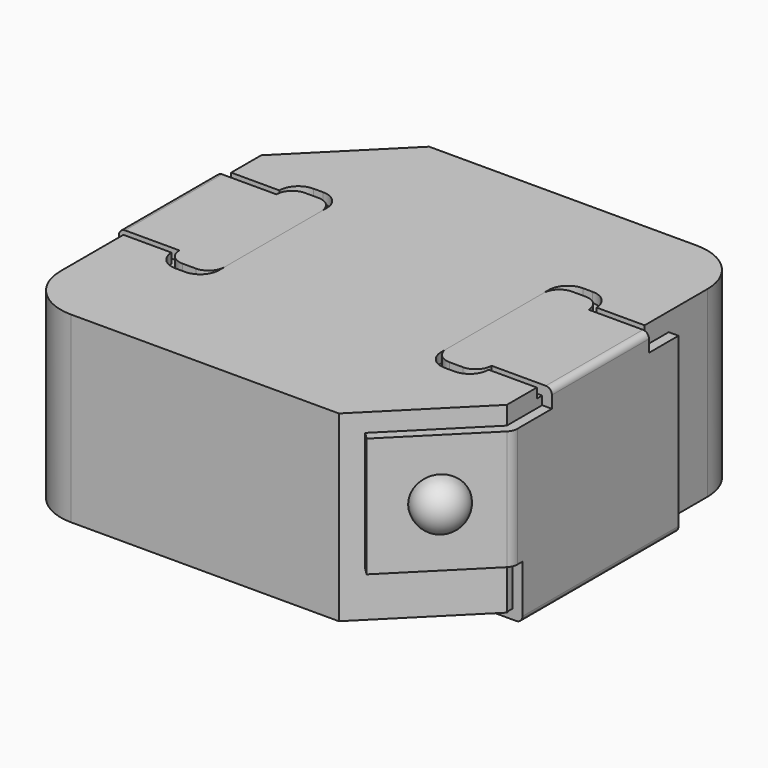
from build123d import *

# Parameters (mm, degrees)
PAD_DEPTH       = 0.16
SKETCH004_W     = 0.16
SKETCH004_H     = 3.2
PAD001_DEPTH    = 3.15
PAD002_DEPTH    = 0.16
SKETCH006_W     = 0.16
SKETCH006_H     = 0.605
POCKET_DEPTH    = 0.3
PAD003_DEPTH    = 1.96
SKETCH_R        = 0.2
POCKET001_DEPTH = 3.61875216
SPHERE_ANGLE    = 180
FILLET_R        = 0.1
FILLET001_R     = 0.2
ARRAY_COUNT     = 2
PAD004_DEPTH    = 3
POCKET002_DEPTH = 0.01
POCKET003_DEPTH = 0.16


with BuildPart() as array:
    # Sketch003 → Pad (new body)
    with BuildSketch(Plane.XY):
        with BuildLine():
            Line((3.55, 1.5999999652), (2.2900000151, 1.5999999652))
            ThreePointArc((2.2900000151, 1.5999999652), (2.0849390355, 1.5150609338), (2, 1.3099999559))
            Line((2, 1.3099999559), (2, -1.3099999721))
            ThreePointArc((2, -1.3099999721), (2.0849390413, -1.5150609396), (2.2900000151, -1.5999999652))
            Line((3.55, -1.5999999652), (2.2900000151, -1.5999999652))
            Line((3.55, 1.5999999652), (3.55, -1.5999999652))
        make_face()
    extrude(amount=PAD_DEPTH)

    # Sketch004 → Pad001 (join)
    with BuildSketch(Plane.XY):
        with Locations((3.47, 0)):
            Rectangle(SKETCH004_W, SKETCH004_H)
    extrude(amount=PAD001_DEPTH)

    # Sketch005 → Pad002 (join)
    with BuildSketch(Plane.XY.offset(3.15)):
        with BuildLine():
            Line((2.56, 0.995), (3.55, 0.995))
            Line((3.55, 0.995), (3.55, -0.995))
            Line((3.55, -0.995), (2.56, -0.995))
            ThreePointArc((2.3000000261, -1.255), (2.4838477723, -1.1788477539), (2.56, -0.995))
            Line((2.3000000261, -1.255), (2.0799999647, -1.255))
            ThreePointArc((1.82, -0.9949999993), (1.8961522242, -1.1788477504), (2.0799999647, -1.255))
            Line((1.82, 0.9950000001), (1.82, -0.9949999993))
            ThreePointArc((2.0799999469, 1.255), (1.8961522181, 1.1788477444), (1.82, 0.9950000001))
            Line((2.3000000082, 1.255), (2.0799999469, 1.255))
            ThreePointArc((2.56, 0.995), (2.483847766, 1.1788477602), (2.3000000082, 1.255))
        make_face()
    extrude(amount=-PAD002_DEPTH)

    # Sketch006 → Pocket (cut)
    with BuildSketch(Plane.XY.offset(3.15)):
        with Locations((3.47, -1.2975)):
            Rectangle(SKETCH006_W, SKETCH006_H)
        with Locations((3.47, 1.2975)):
            Rectangle(SKETCH006_W, SKETCH006_H)
    extrude(amount=-POCKET_DEPTH, mode=Mode.SUBTRACT)

    # Sketch007 (on Face17 of Pocket) → Pad003 (join)
    with BuildSketch(Plane.XY.offset(2.85)):
        Polygon((3.39, -1.6), (3.39, -1.72), (2.1, -3.01), (2.213137085, -3.123137085), (3.55, -1.78627417), (3.55, -1.6), align=None)
    extrude(amount=-PAD003_DEPTH)

    # Sketch (on Face37 of Pad003) → Pocket001 (cut, through all)
    with BuildSketch(Plane(origin=(2.668137085, -2.668137085, 0), x_dir=(0.7071067812, 0.7071067812, 0), z_dir=(0.7071067812, -0.7071067812, 0))):
        with Locations((0.3018376618, 1.87)):
            Circle(SKETCH_R)
    extrude(amount=-POCKET001_DEPTH, mode=Mode.SUBTRACT)

    # Sphere → Sphere (revolve)
    with BuildSketch(Plane(origin=(2.8815685425, -2.4547056275, 1.87), x_dir=(0, 0, 1), z_dir=(-0.7071067812, 0.7071067812, 0))):
        with BuildLine():
            ThreePointArc((0, -0.41), (0.41, 0), (0, 0.41))
            Line((0, 0.41), (0, -0.41))
        make_face()
    revolve(axis=Axis((2.8815685425, -2.4547056275, 1.87), (0.7071067812, 0.7071067812, 0)), revolution_arc=SPHERE_ANGLE)

    # Fillet
    fillet_edges = [array.edges().sort_by_distance(p)[0] for p in [
        (3.55, 0, 0),
        (3.55, 0, 3.15),
    ]]
    fillet(fillet_edges, radius=FILLET_R)

    # Fillet001
    fillet001_edges = [array.edges().sort_by_distance(p)[0] for p in [
        (3.55, -1.786274, 1.87),
    ]]
    fillet(fillet001_edges, radius=FILLET001_R)


with BuildPart() as array_copy1:
    # Array: instance of Array
    add(array.part.rotate(Axis((0, 0, 0), (0, 0, 1)), 1 * 360 / ARRAY_COUNT))


with BuildPart() as body001:
    # Sketch008 → Pad004 (new body)
    with BuildSketch(Plane.XY):
        with BuildLine():
            Line((2.5299999235, 3.25), (-1.86, 3.25))
            Line((-1.86, 3.25), (-3.39, 1.72))
            Line((-3.39, 1.72), (-3.39, -2.3900000125))
            ThreePointArc((-3.39, -2.3900000125), (-3.1381118404, -2.9981118233), (-2.5300000367, -3.25))
            Line((1.86, -3.25), (-2.5300000367, -3.25))
            Line((3.39, -1.72), (1.86, -3.25))
            Line((3.39, 2.389999995), (3.39, -1.72))
            ThreePointArc((3.39, 2.389999995), (3.1381118065, 2.9981118571), (2.5299999235, 3.25))
        make_face()
    extrude(amount=PAD004_DEPTH)

    # Sketch001 → Pocket002 (cut)
    with BuildSketch(Plane.XY):
        with BuildLine():
            Line((3.55, 1.695), (2.2900000122, 1.695))
            ThreePointArc((2.2900000122, 1.695), (1.9505887469, 1.5544112569), (1.81, 1.2149999931))
            Line((1.81, 1.2149999931), (1.81, -1.2149999906))
            ThreePointArc((1.81, -1.2149999906), (1.950588746, -1.554411256), (2.2900000122, -1.695))
            Line((3.55, -1.695), (2.2900000122, -1.695))
            Line((3.55, 1.695), (3.55, -1.695))
        make_face()
    pocket002 = extrude(amount=POCKET002_DEPTH, mode=Mode.SUBTRACT)

    # Mirrored: Pocket002 across Sketch001 V_Axis
    add(pocket002.mirror(Plane(origin=(0, 0, 0), x_dir=(0, 0, 1), z_dir=(1, 0, 0))), mode=Mode.SUBTRACT)

    # Sketch002 → Pocket003 (cut)
    with BuildSketch(Plane.XY.offset(3)):
        with BuildLine():
            Line((2.6, 1.105), (3.55, 1.105))
            Line((3.55, 1.105), (3.55, -1.105))
            Line((3.55, -1.105), (2.6, -1.105))
            ThreePointArc((2.2899999653, -1.415), (2.5092030899, -1.3242031144), (2.6, -1.105))
            Line((2.2899999653, -1.415), (2.1299999998, -1.415))
            ThreePointArc((1.82, -1.1050000084), (1.9107969007, -1.3242031051), (2.1299999998, -1.415))
            Line((1.82, 1.1049999925), (1.82, -1.1050000084))
            ThreePointArc((2.1300001123, 1.415), (1.9107969349, 1.3242031392), (1.82, 1.1049999925))
            Line((2.2900000778, 1.415), (2.1300001123, 1.415))
            ThreePointArc((2.6, 1.105), (2.5092031297, 1.3242030747), (2.2900000778, 1.415))
        make_face()
    pocket003 = extrude(amount=-POCKET003_DEPTH, mode=Mode.SUBTRACT)

    # Mirrored001: Pocket003 across Sketch002 V_Axis
    add(pocket003.mirror(Plane(origin=(0, 0, 3), x_dir=(0, 0, 1), z_dir=(1, 0, 0))), mode=Mode.SUBTRACT)


with BuildPart() as body001_1:
    # Body001 placement: moved
    add(body001.part.moved(Location((0, 0, 0.15))))


solid = Compound([array.part, array_copy1.part, body001_1.part])
